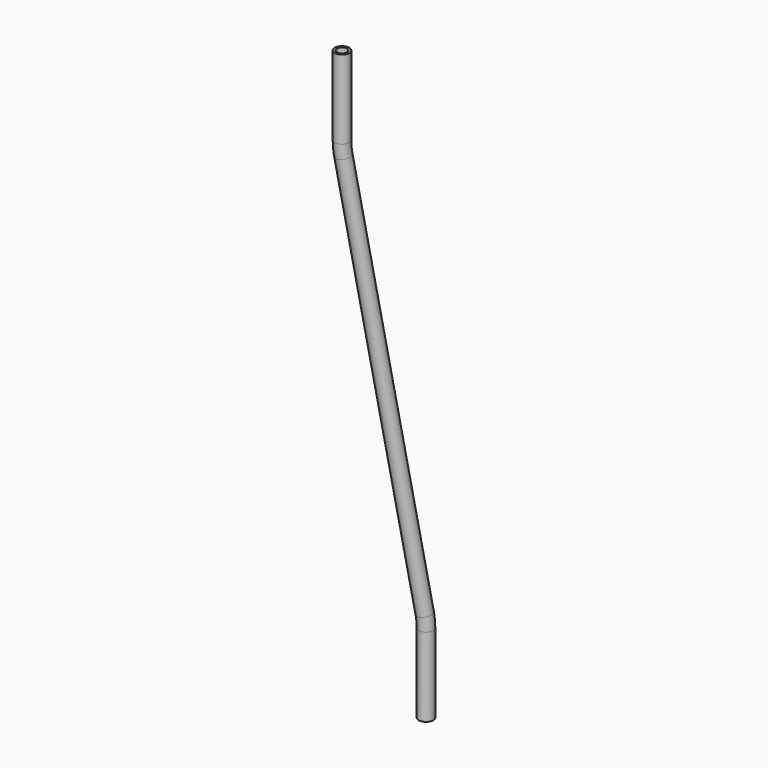
from build123d import *

# Parameters (mm, degrees)
F8_R  = 4.318
F18_T = -1.27


with BuildPart() as f17:
    # F17: sweep along a path in F17_path
    with BuildLine(Plane(origin=(-368.25936, 75.36434, 631.04268), x_dir=(0.699650286, 0.7144854633, 0), z_dir=(-0.7144854633, 0.699650286, 0))) as f17_path:
        Line((0, 0), (0, -46.832198764))
        ThreePointArc((0, -46.832198764), (-0.1542497794, -50.7879521168), (-0.6160623854, -54.719682868))
        Line((-0.6160623854, -54.719682868), (-38.5920971047, -296.341337132))
        ThreePointArc((-38.5920971047, -296.341337132), (-39.0539097107, -300.2730678832), (-39.20815949, -304.228821236))
        Line((-39.20815949, -304.228821236), (-39.20815949, -351.06102))
    # F8 (on line) → F17 (sweep)
    with BuildSketch(Plane(origin=(0, 0, 631.04268), x_dir=(1, 0, 0), z_dir=(0, 0, -1))):
        with Locations((-368.25936, -75.36434)):
            Circle(F8_R)
    sweep(path=f17_path.line)

    # F18
    f18_openings = [f17.faces().sort_by_distance(p)[0] for p in [
        (-395.69136, 47.35068, 982.1037),
    ]]
    offset(amount=F18_T, openings=f18_openings)


solid = f17.part
